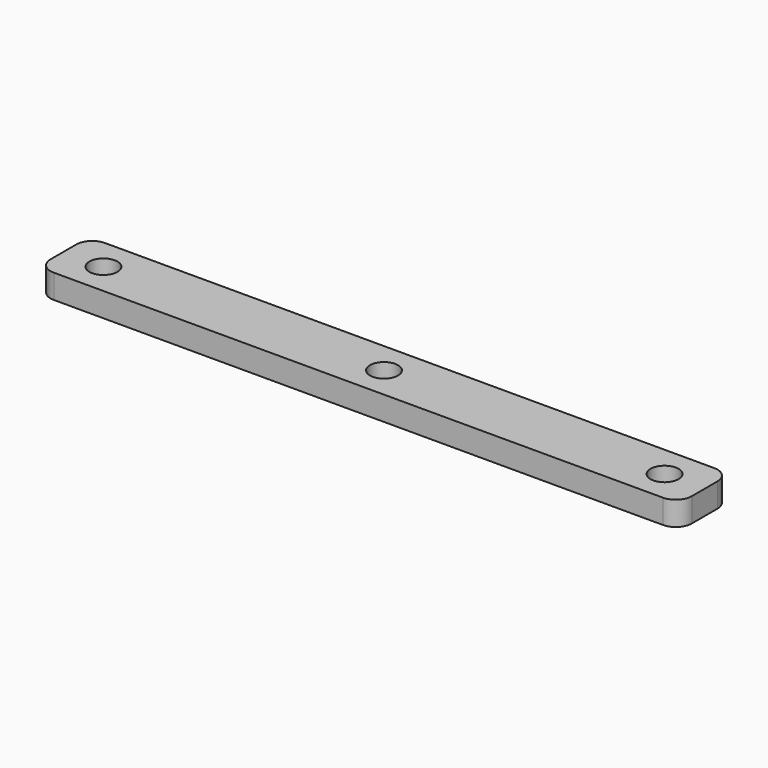
from build123d import *

# Parameters (mm, degrees)
F0_W     = 80
F0_H     = 8
F0_R     = 1.75
F1_DEPTH = 3
F2_R     = 2


with BuildPart() as f1:
    # F0 (on Top) → F1 (new body)
    with BuildSketch(Plane.XY):
        Rectangle(F0_W, F0_H)
        with Locations((-35, 0)):
            Circle(F0_R, mode=Mode.SUBTRACT)
        Circle(F0_R, mode=Mode.SUBTRACT)
        with Locations((35, 0)):
            Circle(F0_R, mode=Mode.SUBTRACT)
    extrude(amount=F1_DEPTH)

    # F2
    f2_edges = [f1.edges().sort_by_distance(p)[0] for p in [
        (-40, -4, 1.5),
        (40, -4, 1.5),
        (40, 4, 1.5),
        (-40, 4, 1.5),
    ]]
    fillet(f2_edges, radius=F2_R)


solid = f1.part
